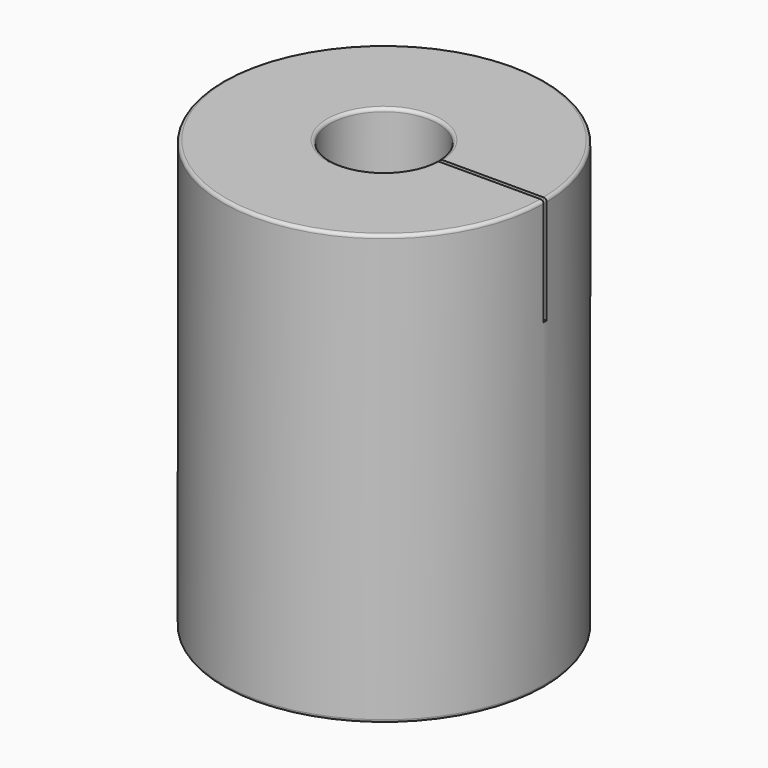
from build123d import *

# Parameters (mm, degrees)
F0_R      = 15
F0_R_2    = 4
F1_DEPTH  = 10
F2_R      = 15
F2_R_2    = 5
F3_DEPTH  = 30
F4_R      = 0.3
F5_R      = 0.3
F6_R      = 2
F7_DEPTH  = 20.34312
F9_DEPTH  = 10
F11_DEPTH = 10


with BuildPart() as f1:
    # F0 (on Top) → F1 (new body)
    with BuildSketch(Plane.XY):
        Circle(F0_R)
        Circle(F0_R_2, mode=Mode.SUBTRACT)
    extrude(amount=F1_DEPTH)

    # F2 (on face) → F3 (join)
    with BuildSketch(Plane.XY.offset(10)):
        Circle(F2_R)
        Circle(F2_R_2, mode=Mode.SUBTRACT)
    extrude(amount=F3_DEPTH)

    # F4
    f4_edges = [f1.edges().sort_by_distance(p)[0] for p in [
        (-15, 0, 40),
    ]]
    fillet(f4_edges, radius=F4_R)

    # F5
    f5_edges = [f1.edges().sort_by_distance(p)[0] for p in [
        (-15, 0, 0),
        (-5, 0, 40),
        (-4, 0, 0),
    ]]
    fillet(f5_edges, radius=F5_R)

    # F6 (on Front) → F7 (cut)
    with BuildSketch(Plane.XZ):
        with Locations((9, 34.7)):
            Circle(F6_R)
        with Locations((-9, 5.3)):
            Circle(F6_R)
    extrude(amount=-F7_DEPTH, mode=Mode.SUBTRACT)

    # F8 (on face) → F9 (cut)
    with BuildSketch(Plane.XY.offset(40)):
        with BuildLine():
            Line((2.5762253208, -0.1799123052), (5.2969454936, -0.1799123052))
            ThreePointArc((5.2969454936, -0.1799123052), (5.2992363184, -0.0899691164), (5.3, 0))
            ThreePointArc((5.3, 0), (5.2992363184, 0.0899691164), (5.2969454936, 0.1799123052))
            Line((5.2969454936, 0.1799123052), (2.5762253208, 0.1799123052))
            Line((2.5762253208, 0.1799123052), (2.5762253208, -0.1799123052))
        make_face()
        with BuildLine():
            Line((5.2969454936, -0.1799123052), (14.6988989915, -0.1799123052))
            ThreePointArc((14.6988989915, -0.1799123053), (14.6997247453, -0.0899578371), (14.7, 0))
            ThreePointArc((14.7, 0), (14.6997247453, 0.0899578371), (14.6988989915, 0.1799123053))
            Line((14.6988989915, 0.1799123052), (5.2969454936, 0.1799123052))
            ThreePointArc((5.2969454936, 0.1799123052), (5.2992363184, 0.0899691164), (5.3, 0))
            ThreePointArc((5.3, 0), (5.2992363184, -0.0899691164), (5.2969454936, -0.1799123052))
        make_face()
        with BuildLine():
            Line((14.6988989915, -0.1799123052), (17.0045065461, -0.1799123052))
            Line((17.0045065461, -0.1799123052), (17.0045065461, 0.1799123052))
            Line((17.0045065461, 0.1799123052), (14.6988989915, 0.1799123052))
            ThreePointArc((14.6988989915, 0.1799123053), (14.6997247453, 0.0899578371), (14.7, 0))
            ThreePointArc((14.7, 0), (14.6997247453, -0.0899578371), (14.6988989915, -0.1799123053))
        make_face()
    extrude(amount=-F9_DEPTH, mode=Mode.SUBTRACT)

    # F10 (on face) → F11 (cut)
    with BuildSketch(Plane(origin=(0, 0, 0), x_dir=(1, 0, 0), z_dir=(0, 0, -1))):
        with BuildLine():
            Line((-4.2962360163, -0.1798779937), (-1.9751195796, -0.1798779937))
            Line((-1.9751195796, -0.1798779937), (-1.9751195796, 0.1799466168))
            Line((-1.9751195796, 0.1799466168), (-4.2962331425, 0.1799466168))
            ThreePointArc((-4.2962331425, 0.1799466168), (-4.2999999999, 3.43417e-05), (-4.2962360163, -0.1798779937))
        make_face()
        with BuildLine():
            Line((-14.6988994114, -0.1798779937), (-4.2962360163, -0.1798779937))
            ThreePointArc((-4.2962360163, -0.1798779937), (-4.2999999999, 3.43417e-05), (-4.2962331425, 0.1799466168))
            Line((-4.2962331425, 0.1799466168), (-14.6988985715, 0.1799466168))
            ThreePointArc((-14.6988985715, 0.1799466168), (-14.7, 3.43142e-05), (-14.6988994114, -0.1798779937))
        make_face()
        with BuildLine():
            Line((-16.4034008048, -0.1798779937), (-14.6988994114, -0.1798779937))
            ThreePointArc((-14.6988994114, -0.1798779937), (-14.7, 3.43142e-05), (-14.6988985715, 0.1799466168))
            Line((-14.6988985715, 0.1799466168), (-16.4034008048, 0.1799466168))
            Line((-16.4034008048, 0.1799466168), (-16.4034008048, -0.1798779937))
        make_face()
    extrude(amount=-F11_DEPTH, mode=Mode.SUBTRACT)


solid = f1.part
